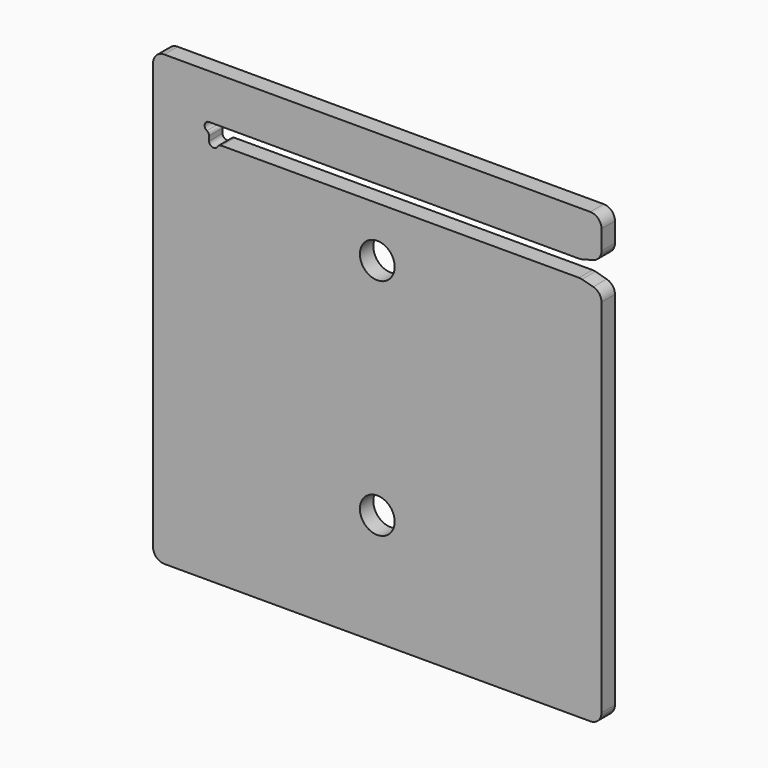
from build123d import *

# Parameters (mm, degrees)
SKETCH017_R  = 1.55
PAD014_DEPTH = 0.75
FILLET020_R  = 0.4
FILLET021_R  = 1


with BuildPart() as part:
    # Sketch017 → Pad014 (new body, symmetric)
    with BuildSketch(Plane.XZ):
        with BuildLine():
            Line((-20, 20), (-20, -17))
            Line((-20, -18.5), (-20, -17))
            Line((-20, -18.5), (-20, -20))
            Line((-20, -20), (20, -20))
            Line((20, -20), (20, 14))
            Line((18.133975, 14.5), (20, 14))
            Line((18.133975, 14.5), (-14.2, 14.5))
            ThreePointArc((-15, 14.5), (-14.6, 14.1), (-14.2, 14.5))
            Line((-15, 14.5), (-15, 15.2))
            ThreePointArc((-15, 16), (-15.4, 15.6), (-15, 15.2))
            Line((-15, 16), (18.133975, 16))
            Line((18.133975, 16), (20, 16.5))
            Line((20, 16.5), (20, 20))
            Line((20, 20), (-20, 20))
        make_face()
        with Locations((0, 10)):
            Circle(SKETCH017_R, mode=Mode.SUBTRACT)
        with Locations((0, -10)):
            Circle(SKETCH017_R, mode=Mode.SUBTRACT)
    extrude(amount=PAD014_DEPTH, both=True)

    # Fillet020
    fillet020_edges = [part.edges().sort_by_distance(p)[0] for p in [
        (-15, 0, 15.2),
        (-14.2, 0, 14.5),
    ]]
    fillet(fillet020_edges, radius=FILLET020_R)

    # Fillet021
    fillet021_edges = [part.edges().sort_by_distance(p)[0] for p in [
        (-20, 0, 20),
        (-20, 0, -20),
        (20, 0, -20),
        (20, 0, 14),
        (18.133975, 0, 14.5),
        (18.133975, 0, 16),
        (20, 0, 16.5),
        (20, 0, 20),
    ]]
    fillet(fillet021_edges, radius=FILLET021_R)


solid = part.part
